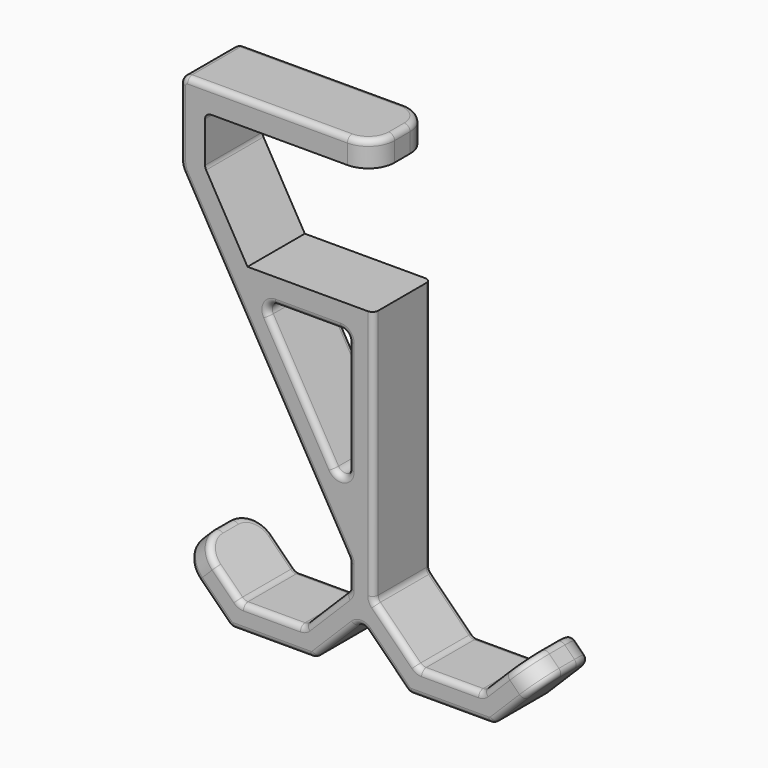
from build123d import *

# Parameters (mm, degrees)
PAD_DEPTH   = 18.5
FILLET_R    = 6.75
FILLET001_R = 1.5


with BuildPart() as part:
    # Sketch → Pad (new body)
    with BuildSketch(Plane.XZ):
        with BuildLine():
            Line((50, 121.552338), (2, 121.552338))
            ThreePointArc((2, 121.552338), (0.585786, 120.966551), (0, 119.552338))
            Line((0, 119.552338), (0, 102.24849))
            ThreePointArc((0, 102.24849), (0.187408, 100.824985), (0.73686, 99.49849))
            Line((0.73686, 99.49849), (43.232051, 25.894661))
            ThreePointArc((43.5, 24.894661), (43.431852, 25.412299), (43.232051, 25.894661))
            Line((43.5, 24.894661), (43.5, 18.894661))
            ThreePointArc((42.914214, 17.480447), (43.347759, 18.129294), (43.5, 18.894661))
            Line((42.914214, 17.480447), (32.519553, 7.085786))
            ThreePointArc((31.105339, 6.5), (31.870706, 6.652241), (32.519553, 7.085786))
            Line((31.105339, 6.5), (16.405069, 6.5))
            ThreePointArc((14.990855, 7.085786), (15.639702, 6.652241), (16.405069, 6.5))
            Line((14.990855, 7.085786), (4.596194, 17.480447))
            Line((0, 12.884253), (4.596194, 17.480447))
            Line((0, 12.884253), (12.298467, 0.585786))
            ThreePointArc((12.298467, 0.585786), (12.947314, 0.152241), (13.71268, 0))
            Line((13.71268, 0), (33.797727, 0))
            ThreePointArc((33.797727, 0), (34.563094, 0.152241), (35.211941, 0.585786))
            Line((35.211941, 0.585786), (45.335786, 10.709632))
            ThreePointArc((48.164214, 10.709632), (46.75, 11.295419), (45.335786, 10.709632))
            Line((58.288059, 0.585786), (48.164214, 10.709632))
            ThreePointArc((58.288059, 0.585786), (58.936906, 0.152241), (59.702273, 0))
            Line((79.78732, 0), (59.702273, 0))
            ThreePointArc((79.78732, 0), (80.552686, 0.152241), (81.201533, 0.585786))
            Line((93.5, 12.884253), (81.201533, 0.585786))
            Line((88.903806, 17.480447), (93.5, 12.884253))
            Line((78.509145, 7.085786), (88.903806, 17.480447))
            ThreePointArc((77.094931, 6.5), (77.860298, 6.652241), (78.509145, 7.085786))
            Line((62.394661, 6.5), (77.094931, 6.5))
            ThreePointArc((60.980447, 7.085786), (61.629294, 6.652241), (62.394661, 6.5))
            Line((60.980447, 7.085786), (50.585786, 17.480447))
            ThreePointArc((50, 18.894661), (50.152241, 18.129294), (50.585786, 17.480447))
            Line((50, 83.552338), (50, 18.894661))
            Line((17.448929, 83.552338), (50, 83.552338))
            Line((17.448929, 83.552338), (6.767949, 102.052338))
            ThreePointArc((6.5, 103.052338), (6.568148, 102.5347), (6.767949, 102.052338))
            Line((6.5, 113.552338), (6.5, 103.052338))
            ThreePointArc((8, 115.052338), (6.93934, 114.612998), (6.5, 113.552338))
            Line((8, 115.052338), (50, 115.052338))
            Line((50, 115.052338), (50, 121.552338))
        make_face()
        with BuildLine():
            Line((43.5, 75.052338), (43.5, 45.894661))
            ThreePointArc((39.767949, 44.894661), (42.017638, 43.962809), (43.5, 45.894661))
            Line((39.767949, 44.894661), (22.933757, 74.052338))
            ThreePointArc((24.665808, 77.052338), (22.933757, 76.052338), (22.933757, 74.052338))
            Line((24.665808, 77.052338), (41.5, 77.052338))
            ThreePointArc((43.5, 75.052338), (42.914214, 76.466551), (41.5, 77.052338))
        make_face(mode=Mode.SUBTRACT)
    extrude(amount=PAD_DEPTH)

    # Fillet
    fillet_edges = [part.edges().sort_by_distance(p)[0] for p in [
        (50, 0, 118.302338),
        (50, -18.5, 118.302338),
        (91.201903, -18.5, 15.18235),
        (91.201903, 0, 15.18235),
        (2.298097, 0, 15.18235),
        (2.298097, -18.5, 15.18235),
    ]]
    fillet(fillet_edges, radius=FILLET_R)

    # Fillet001
    fillet001_edges = [part.edges().sort_by_distance(p)[0] for p in [
        (31.350853, -18.5, 59.473499),
        (21.984456, -18.5, 62.696575),
        (50, -18.5, 51.223499),
        (50, 0, 51.223499),
        (23.755204, -18.5, 6.5),
        (69.744796, -18.5, 6.5),
        (69.744796, 0, 6.5),
        (23.755204, 0, 6.5),
        (31.350853, 0, 59.473499),
        (21.984456, 0, 62.696575),
        (22.625, 0, 121.552338),
        (22.625, -18.5, 121.552338),
        (69.744796, -18.5, 0),
    ]]
    fillet(fillet001_edges, radius=FILLET001_R)


solid = part.part
